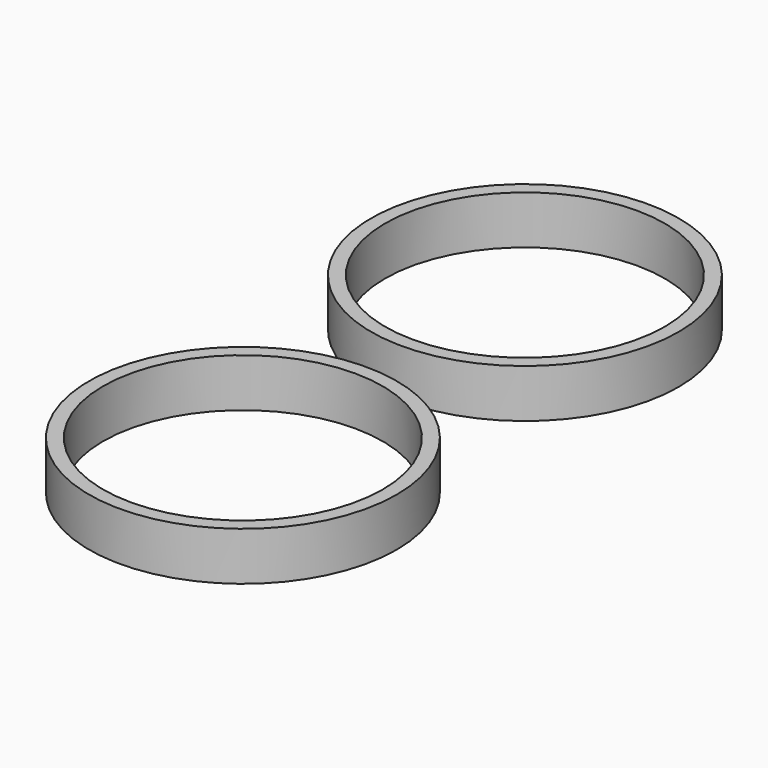
from build123d import *

# Parameters (mm, degrees)
F0_R     = 12.7
F0_R_2   = 11.545211
F1_DEPTH = 4


with BuildPart() as f1:
    # F0 (on Top) → F1 (new body)
    with BuildSketch(Plane.XY):
        Circle(F0_R)
        Circle(F0_R_2, mode=Mode.SUBTRACT)
    extrude(amount=F1_DEPTH)


with BuildPart() as f2_1:
    # F2: copy of F1
    add(f1.part.moved(Location((0, 29.1, 0))))


solid = Compound([f1.part, f2_1.part])
